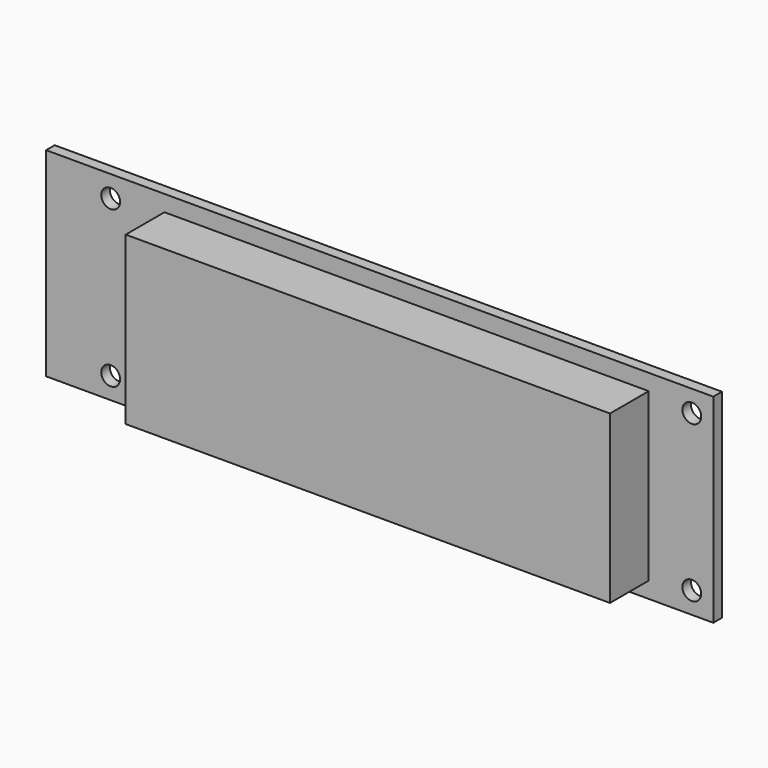
from build123d import *

# Parameters (mm, degrees)
F0_W     = 12
F0_H     = 29
F0_H_2   = 4
F0_W_2   = 90
F0_H_3   = 31
F0_W_3   = 4
F1_DEPTH = 2
F2_DEPTH = 11
F3_D     = 3.5
F4_DEPTH = 3


with BuildPart() as f1:
    # F0 (on Front) → F1 (new body)
    with BuildSketch(Plane.XZ):
        with Locations((-115.3087058514, -52.4680708938)):
            Rectangle(F0_W, F0_H)
        with Locations((-115.3087058514, -35.9680708938)):
            Rectangle(F0_W, F0_H_2)
        Polygon((-109.3087058514, -66.9680708938), (-109.3087058514, -70.9680708938), (-1.3087058514, -70.9680708938), (-1.3087058514, -66.9680708938), (-1.3087058514, -37.9680708938), (-1.3087058514, -33.9680708938), (-109.3087058514, -33.9680708938), (-109.3087058514, -37.9680708938), align=None)
        with Locations((-54.3087058514, -52.4680708938)):
            Rectangle(F0_W_2, F0_H_3, mode=Mode.SUBTRACT)
        with Locations((-115.3087058514, -68.9680708938)):
            Rectangle(F0_W, F0_H_2)
        with Locations((0.6912941486, -35.9680708938)):
            Rectangle(F0_W_3, F0_H_2)
        with Locations((0.6912941486, -52.4680708938)):
            Rectangle(F0_W_3, F0_H)
        with Locations((0.6912941486, -68.9680708938)):
            Rectangle(F0_W_3, F0_H_2)
    extrude(amount=F1_DEPTH)

    # F0 (on Front) → F2 (join)
    with BuildSketch(Plane.XZ):
        with Locations((-54.3087058514, -52.4680708938)):
            Rectangle(F0_W_2, F0_H_3)
    extrude(amount=F2_DEPTH)

    # F3 (through all)
    with Locations(Plane(origin=(0, 0, 0), x_dir=(1, 0, 0), z_dir=(0, 1, 0))):
        with Locations((-109.3087058514, 37.9680708938), (-109.3087058514, 66.9680708938), (-1.3087058514, 37.9680708938), (-1.3087058514, 66.9680708938)):
            Hole(F3_D / 2)

    # F0 (on Front) → F4 (join)
    with BuildSketch(Plane.XZ):
        with Locations((-54.3087058514, -52.4680708938)):
            Rectangle(F0_W_2, F0_H_3)
    extrude(amount=-F4_DEPTH)


solid = f1.part
